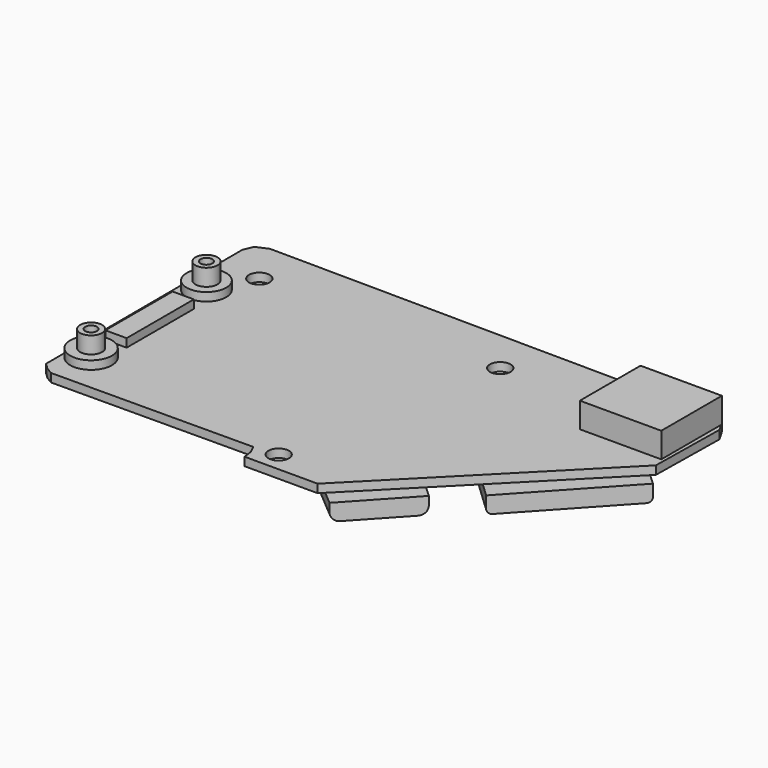
from build123d import *

# Parameters (mm, degrees)
SKETCH011_R             = 1.224307
PAD008_DEPTH            = 1
PAD009_DEPTH            = 2
SKETCH013_R             = 0.669574
PAD010_DEPTH            = 0.3
SKETCH014_W             = 3.347854
SKETCH014_H             = 4.253745
SKETCH014_W_2           = 3.426628
SKETCH014_H_2           = 4.174973
PAD011_DEPTH            = 2.5
PAD012_DEPTH            = 0.5
SKETCH016_R             = 2.3619034919
SKETCH016_R_2           = 2.482744
SKETCH016_W             = 2.528995
SKETCH016_H             = 10.003113
SKETCH016_W_2           = 9.696317
SKETCH016_H_2           = 9.027602
PAD013_DEPTH            = 1
PAD013_FACE69_W         = 9.027602
PAD013_FACE69_H         = 9.696317
PAD014_DEPTH            = 2
SKETCH017_R             = 1.308105
PAD015_DEPTH            = 2
SKETCH018_R             = 0.7
POCKET002_DEPTH         = 2
FILLET_R                = 0.6
FILLET001_R             = 1
BODY002_PLACEMENT_ANGLE = 180


with BuildPart() as part:
    # Sketch011 → Pad008 (new body)
    with BuildSketch(Plane.XY):
        Polygon((-64.871361, 16.524712), (-64.953331, -12.782201), (-64.465881, -13.950911), (-63.050274, -14.556654), (-9.769273, -14.098216), (-8.39049, -13.460031), (-7.653603, -12.197431), (-7.802202, -2.917618), (-30.061977, 19.617523), (-38.753654, 19.617523), (-38.912724, 18.463722), (-39.367214, 17.569231), (-63.35894, 17.690104), (-64.199226, 17.178921), align=None)
        with Locations((-60.089397, -9.239854)):
            Circle(SKETCH011_R, mode=Mode.SUBTRACT)
        with Locations((-31.335621, -9.166426)):
            Circle(SKETCH011_R, mode=Mode.SUBTRACT)
        with Locations((-36.552418, 17.295319)):
            Circle(SKETCH011_R, mode=Mode.SUBTRACT)
    extrude(amount=PAD008_DEPTH)

    # Sketch012 (on Face19 of Pad008) → Pad009 (join)
    with BuildSketch(Plane.XY.offset(1)):
        Polygon((-27.986155, 20.438019), (-35.378761, 14.19105), (-28.756979, 7.002593), (-21.645378, 13.573798), align=None)
        Polygon((-17.547031, 10.170015), (-30.422066, -1.999235), (-30.712292, -2.998892), (-21.228363, -13.603945), (-20.06669, -13.603945), (-6.912658, -1.370249), align=None)
    extrude(amount=PAD009_DEPTH)

    # Sketch013 (on Face5 of Pad009) → Pad010 (join)
    with BuildSketch(Plane.XY.offset(1)):
        with Locations((-55.712467, 16.086485)):
            Circle(SKETCH013_R)
        with Locations((-51.813202, 15.968324)):
            Circle(SKETCH013_R)
        with Locations((-47.913937, 15.928938)):
            Circle(SKETCH013_R)
        with Locations((-44.054054, 15.928938)):
            Circle(SKETCH013_R)
        with Locations((-40.115402, 15.889551)):
            Circle(SKETCH013_R)
        with Locations((-55.731503, 12.103284)):
            Circle(SKETCH013_R)
        with Locations((-51.832238, 11.985123)):
            Circle(SKETCH013_R)
        with Locations((-47.932973, 11.945737)):
            Circle(SKETCH013_R)
        with Locations((-44.07309, 11.945737)):
            Circle(SKETCH013_R)
        with Locations((-40.134438, 11.90635)):
            Circle(SKETCH013_R)
        with Locations((-55.668774, 8.025242)):
            Circle(SKETCH013_R)
        with Locations((-51.769509, 7.907081)):
            Circle(SKETCH013_R)
        with Locations((-47.870244, 7.867695)):
            Circle(SKETCH013_R)
        with Locations((-44.010361, 7.867695)):
            Circle(SKETCH013_R)
        with Locations((-40.071709, 7.828308)):
            Circle(SKETCH013_R)
        with Locations((-55.539787, -0.197736)):
            Circle(SKETCH013_R)
        with Locations((-51.640522, -0.315897)):
            Circle(SKETCH013_R)
        with Locations((-47.741257, -0.355283)):
            Circle(SKETCH013_R)
        with Locations((-43.881374, -0.355283)):
            Circle(SKETCH013_R)
        with Locations((-39.942722, -0.39467)):
            Circle(SKETCH013_R)
    extrude(amount=PAD010_DEPTH)

    # Sketch014 (on Face5 of Pad010) → Pad011 (join)
    with BuildSketch(Plane.XY.offset(1)):
        with Locations((-53.546768, -11.2506735)):
            Rectangle(SKETCH014_W, SKETCH014_H)
        with Locations((-40.746143, -11.0143545)):
            Rectangle(SKETCH014_W_2, SKETCH014_H_2)
    extrude(amount=PAD011_DEPTH)

    # Sketch015 (on Face66 of Pad011) → Pad012 (join)
    with BuildSketch(Plane.XY.offset(3.5)):
        with BuildLine():
            ThreePointArc((-52.61041275, -10.555223), (-53.57645, -9.58918575), (-54.54248725, -10.555223))
            Line((-54.54248725, -10.555223), (-54.54248725, -11.670621))
            ThreePointArc((-54.54248725, -11.670621), (-53.57645, -12.63665825), (-52.61041275, -11.670621))
            Line((-52.61041275, -10.555223), (-52.61041275, -11.670621))
        make_face()
        with BuildLine():
            ThreePointArc((-39.731315, -10.371226), (-40.628685, -9.473856), (-41.526055, -10.371226))
            Line((-41.526055, -10.371226), (-41.526055, -11.476269))
            ThreePointArc((-41.526055, -11.476269), (-40.628685, -12.373639), (-39.731315, -11.476269))
            Line((-39.731315, -10.371226), (-39.731315, -11.476269))
        make_face()
    extrude(amount=PAD012_DEPTH)

    # Sketch016 (on Face4 of Pad012) → Pad013 (join)
    with BuildSketch(Plane(origin=(0, 0, 0), x_dir=(1, 0, 0), z_dir=(0, 0, -1))):
        with Locations((-62.514374, 4.399912)):
            Circle(SKETCH016_R)
        with Locations((-62.376751, -12.940672)):
            Circle(SKETCH016_R_2)
        with Locations((-62.3010235, -4.3245135)):
            Rectangle(SKETCH016_W, SKETCH016_H)
        with Locations((-13.0114165, 8.686791)):
            Rectangle(SKETCH016_W_2, SKETCH016_H_2)
    extrude(amount=PAD013_DEPTH)

    # Pad013 Face69 → Pad014 (add)
    with BuildSketch(Plane(origin=(-13.0114165, -8.686791, -1), x_dir=(0, -1, 0), z_dir=(0, 0, -1))):
        Rectangle(PAD013_FACE69_W, PAD013_FACE69_H)
    extrude(amount=PAD014_DEPTH)

    # Sketch017 (on Face73 of Pad014) → Pad015 (join)
    with BuildSketch(Plane(origin=(0, 0, -1), x_dir=(1, 0, 0), z_dir=(0, 0, -1))):
        with Locations((-62.513016, 4.396934)):
            Circle(SKETCH017_R)
        with Locations((-62.376751, -12.940672)):
            Circle(SKETCH017_R)
    extrude(amount=PAD015_DEPTH)

    # Sketch018 (on Face114 of Pad015) → Pocket002 (cut)
    with BuildSketch(Plane(origin=(0, 0, -3), x_dir=(1, 0, 0), z_dir=(0, 0, -1))):
        with Locations((-62.513016, 4.396934)):
            Circle(SKETCH018_R)
        with Locations((-62.376751, -12.940672)):
            Circle(SKETCH018_R)
    extrude(amount=-POCKET002_DEPTH, mode=Mode.SUBTRACT)

    # Fillet
    fillet_edges = [part.edges().sort_by_distance(p)[0] for p in [
        (-13.489674, -7.487097, 3),
        (-23.984549, 4.08539, 3),
        (-25.970328, -8.301419, 3),
        (-30.567179, -2.499064, 3),
        (-20.647527, -13.603945, 3),
    ]]
    fillet(fillet_edges, radius=FILLET_R)

    # Fillet001
    fillet001_edges = [part.edges().sort_by_distance(p)[0] for p in [
        (-31.682458, 17.314535, 3),
        (-25.201179, 10.288196, 3),
    ]]
    fillet(fillet001_edges, radius=FILLET001_R)


with BuildPart() as part_1:
    # Body002 placement: moved
    add(part.part.moved(Location((1, -3.3, -5.7))).rotate(Axis((1, -3.3, -5.7), (1, 0, 0)), BODY002_PLACEMENT_ANGLE))


solid = part_1.part
